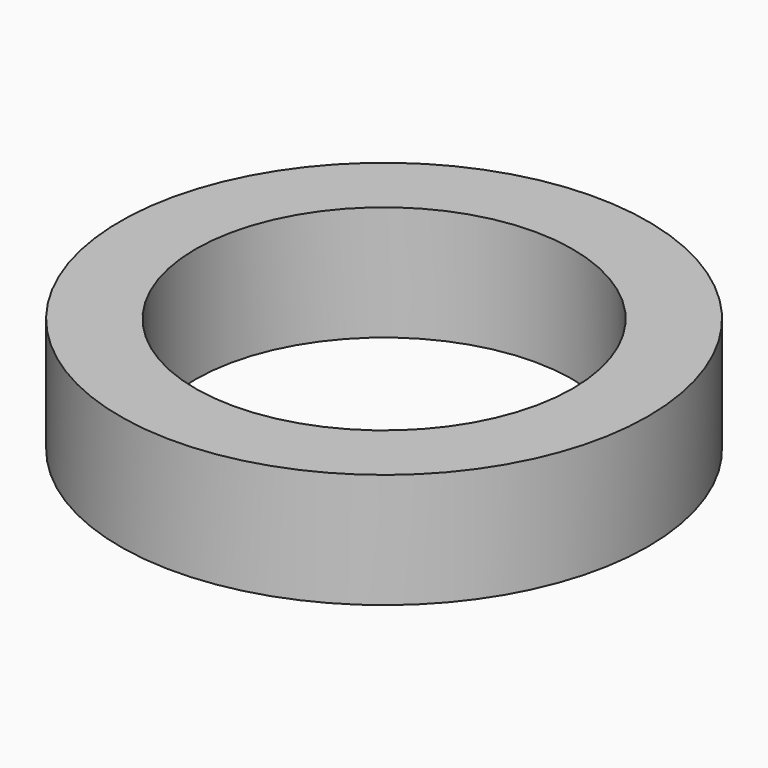
from build123d import *

# Parameters (mm, degrees)
F0_R     = 30.995269
F0_R_2   = 22.15406
F1_DEPTH = 13.462


with BuildPart() as f1:
    # F0 (on Top) → F1 (new body)
    with BuildSketch(Plane.XY):
        with Locations((-25.863606, -26.343469)):
            Circle(F0_R)
        with Locations((-25.863606, -26.343469)):
            Circle(F0_R_2, mode=Mode.SUBTRACT)
    extrude(amount=-F1_DEPTH)


solid = f1.part
